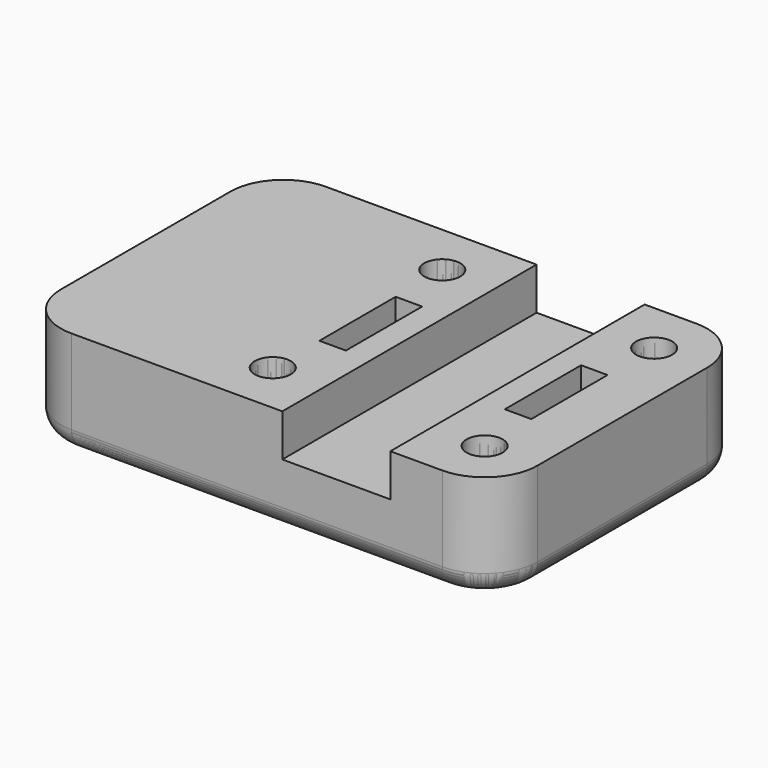
from build123d import *

# Parameters (mm, degrees)
SKETCH_W        = 45
SKETCH_H        = 30
SKETCH_R        = 1.7
SKETCH_W_2      = 2.5
SKETCH_H_2      = 9
PAD_DEPTH       = 10
SKETCH001_W     = 10.2
SKETCH001_H     = 30
POCKET_DEPTH    = 4
FILLET_R        = 5
FILLET001_R     = 5
FILLET002_R     = 5
FILLET003_R     = 5
FILLET004_R     = 2
CHAMFER_SIZE    = 1.7
CHAMFER001_SIZE = 1.7
CHAMFER002_SIZE = 1.7
CHAMFER003_SIZE = 1.7
SKETCH002_R     = 2.5
POCKET001_DEPTH = 5.5


with BuildPart() as obj1:
    # Sketch → Pad (new body)
    with BuildSketch(Plane.XY):
        with Locations((-7.5, 0)):
            Rectangle(SKETCH_W, SKETCH_H)
        with Locations((-10, 10)):
            Circle(SKETCH_R, mode=Mode.SUBTRACT)
        with Locations((-10, -10)):
            Circle(SKETCH_R, mode=Mode.SUBTRACT)
        with Locations((10, 10)):
            Circle(SKETCH_R, mode=Mode.SUBTRACT)
        with Locations((10, -10)):
            Circle(SKETCH_R, mode=Mode.SUBTRACT)
        with Locations((-8.75, 0)):
            Rectangle(SKETCH_W_2, SKETCH_H_2, mode=Mode.SUBTRACT)
        with Locations((8.75, 0)):
            Rectangle(SKETCH_W_2, SKETCH_H_2, mode=Mode.SUBTRACT)
    extrude(amount=PAD_DEPTH)

    # Sketch001 → Pocket (cut)
    with BuildSketch(Plane.XY.offset(10)):
        Rectangle(SKETCH001_W, SKETCH001_H)
    extrude(amount=-POCKET_DEPTH, mode=Mode.SUBTRACT)

    # Fillet
    fillet_edges = [obj1.edges().sort_by_distance(p)[0] for p in [
        (15, 15, 5),
    ]]
    fillet(fillet_edges, radius=FILLET_R)

    # Fillet001
    fillet001_edges = [obj1.edges().sort_by_distance(p)[0] for p in [
        (-30, 15, 5),
    ]]
    fillet(fillet001_edges, radius=FILLET001_R)

    # Fillet002
    fillet002_edges = [obj1.edges().sort_by_distance(p)[0] for p in [
        (15, -15, 5),
    ]]
    fillet(fillet002_edges, radius=FILLET002_R)

    # Fillet003
    fillet003_edges = [obj1.edges().sort_by_distance(p)[0] for p in [
        (-30, -15, 5),
    ]]
    fillet(fillet003_edges, radius=FILLET003_R)

    # Fillet004
    fillet004_edges = [obj1.edges().sort_by_distance(p)[0] for p in [
        (-7.5, 15, 0),
    ]]
    fillet(fillet004_edges, radius=FILLET004_R)


with BuildPart() as obj2:
    # Chamfer base: copy of obj1
    add(obj1.part)

    # Chamfer
    chamfer_edges = [obj2.edges().sort_by_distance(p)[0] for p in [
        (8.3, -10, 0),
    ]]
    chamfer(chamfer_edges, length=CHAMFER_SIZE)

    # Chamfer001
    chamfer001_edges = [obj2.edges().sort_by_distance(p)[0] for p in [
        (8.3, 10, 0),
    ]]
    chamfer(chamfer001_edges, length=CHAMFER001_SIZE)

    # Chamfer002
    chamfer002_edges = [obj2.edges().sort_by_distance(p)[0] for p in [
        (-11.7, -10, 0),
    ]]
    chamfer(chamfer002_edges, length=CHAMFER002_SIZE)

    # Chamfer003
    chamfer003_edges = [obj2.edges().sort_by_distance(p)[0] for p in [
        (-11.7, 10, 0),
    ]]
    chamfer(chamfer003_edges, length=CHAMFER003_SIZE)


with BuildPart() as obj3:
    # Pocket001 base: copy of obj1
    add(obj1.part)

    # Sketch002 → Pocket001 (cut)
    with BuildSketch(Plane(origin=(0, 0, 0), x_dir=(1, 0, 0), z_dir=(0, 0, -1))):
        with Locations((-10, 10)):
            Circle(SKETCH002_R)
        with Locations((10, 10)):
            Circle(SKETCH002_R)
        with Locations((10, -10)):
            Circle(SKETCH002_R)
        with Locations((-10, -10)):
            Circle(SKETCH002_R)
    extrude(amount=-POCKET001_DEPTH, mode=Mode.SUBTRACT)


solid = Compound([obj2.part, obj3.part])
